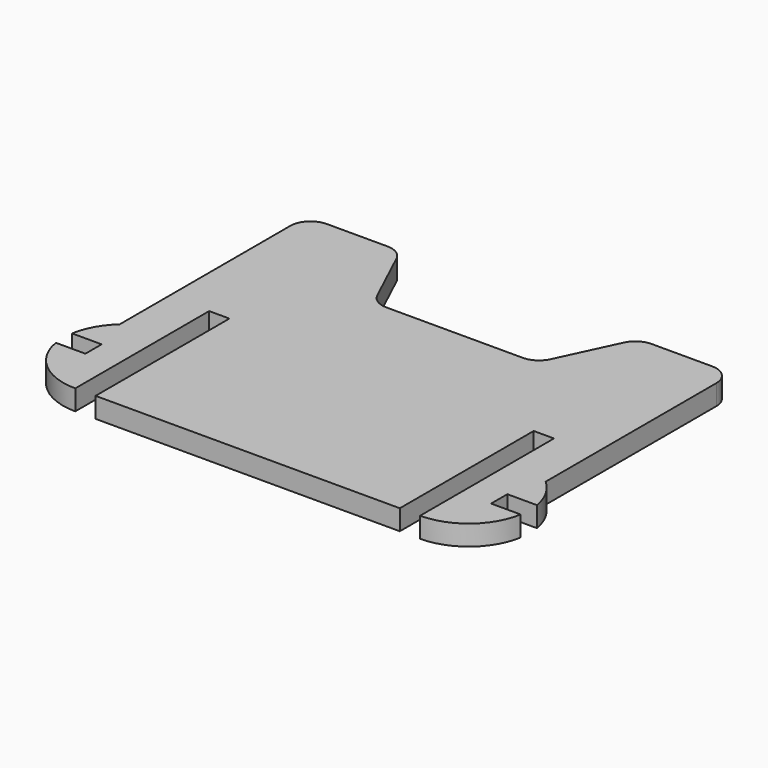
from build123d import *

# Parameters (mm, degrees)
F1_DEPTH = 2


with BuildPart() as f1:
    # F0 (on Top) → F1 (new body)
    with BuildSketch(Plane.XY):
        with BuildLine():
            Line((-13.021325, 16.75), (-19, 16.75))
            ThreePointArc((-19, 16.75), (-20.414214, 16.164214), (-21, 14.75))
            Line((-21, 14.75), (-21, -6.277864))
            ThreePointArc((-21, -6.277864), (-22.253198, -7.85105), (-22.91608, -9.75))
            Line((-22.91608, -9.75), (-20, -9.75))
            Line((-20, -9.75), (-20, -11.75))
            Line((-20, -11.75), (-22.91608, -11.75))
            ThreePointArc((-22.91608, -11.75), (-20.872983, -15.332576), (-17, -16.75))
            Line((-17, -16.75), (-17, -0.25))
            Line((-17, -0.25), (-15, -0.25))
            Line((-15, -0.25), (-15, -16.75))
            Line((-15, -16.75), (15, -16.75))
            Line((15, -16.75), (15, -0.25))
            Line((15, -0.25), (17, -0.25))
            Line((17, -0.25), (17, -16.75))
            ThreePointArc((17, -16.75), (20.872983, -15.332576), (22.91608, -11.75))
            Line((22.91608, -11.75), (20, -11.75))
            Line((20, -11.75), (20, -9.75))
            Line((20, -9.75), (22.91608, -9.75))
            ThreePointArc((22.91608, -9.75), (22.253198, -7.85105), (21, -6.277864))
            Line((21, -6.277864), (21, 14.75))
            ThreePointArc((21, 14.75), (20.414214, 16.164214), (19, 16.75))
            Line((19, 16.75), (13.021325, 16.75))
            ThreePointArc((13.021325, 16.75), (11.948416, 16.437859), (11.210407, 15.598868))
            Line((11.210407, 15.598868), (8.539593, 9.901132))
            ThreePointArc((8.539593, 9.901132), (7.801584, 9.062141), (6.728675, 8.75))
            Line((6.728675, 8.75), (-6.728675, 8.75))
            ThreePointArc((-6.728675, 8.75), (-7.801584, 9.062141), (-8.539593, 9.901132))
            Line((-8.539593, 9.901132), (-11.210407, 15.598868))
            ThreePointArc((-11.210407, 15.598868), (-11.948416, 16.437859), (-13.021325, 16.75))
        make_face()
    extrude(amount=F1_DEPTH)


solid = f1.part
